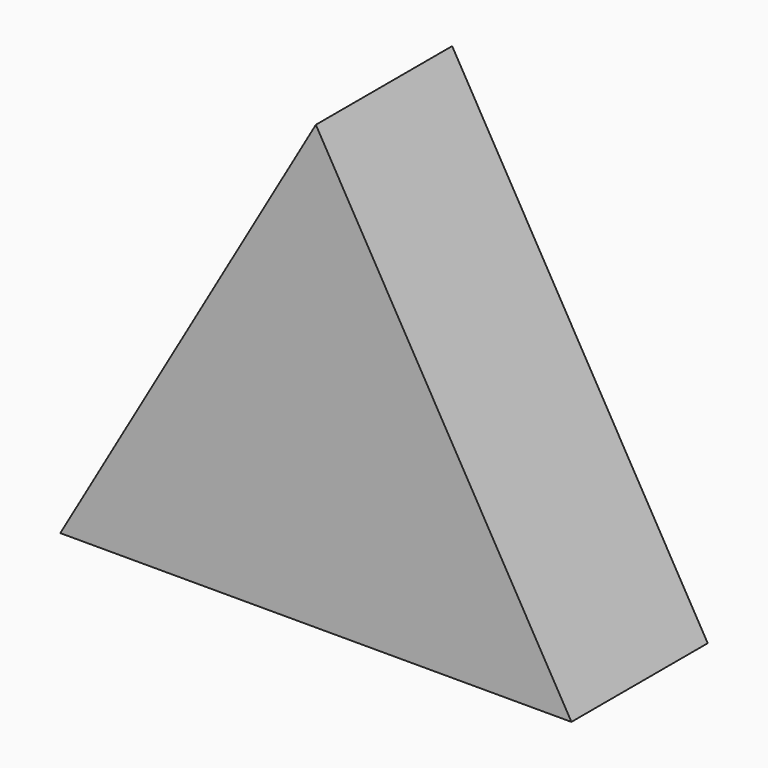
from build123d import *

# Parameters (mm, degrees)
F1_DEPTH = 25.4
F2_R     = 1.5748
F3_DEPTH = 19.05


with BuildPart() as f1:
    # F0 (on Front) → F1 (new body)
    with BuildSketch(Plane.XZ):
        Polygon((-76.2, 0), (0, 0), (-38.1, 65.991136), align=None)
    extrude(amount=F1_DEPTH)

    # F2 (on Front) → F3 (cut)
    with BuildSketch(Plane.XZ):
        with Locations((-38.477365, 54.899465)):
            Circle(F2_R)
        with Locations((-46.49746, 44.01505)):
            Circle(F2_R)
        with Locations((-53.180873, 31.984907)):
            Circle(F2_R)
        with Locations((-61.391924, 17.85426)):
            Circle(F2_R)
        with Locations((-67.502469, 5.442208)):
            Circle(F2_R)
        with Locations((-30.839177, 44.01505)):
            Circle(F2_R)
        with Locations((-38.477365, 31.984907)):
            Circle(F2_R)
        with Locations((-25.301492, 31.984907)):
            Circle(F2_R)
        with Locations((-46.49746, 17.85426)):
            Circle(F2_R)
        with Locations((-30.839177, 17.85426)):
            Circle(F2_R)
        with Locations((-16.517578, 17.85426)):
            Circle(F2_R)
        with Locations((-38.477365, 5.442208)):
            Circle(F2_R)
        with Locations((-53.180873, 5.442208)):
            Circle(F2_R)
        with Locations((-25.301492, 5.442208)):
            Circle(F2_R)
        with Locations((-10.025119, 5.442208)):
            Circle(F2_R)
    extrude(amount=F3_DEPTH, mode=Mode.SUBTRACT)


solid = f1.part
